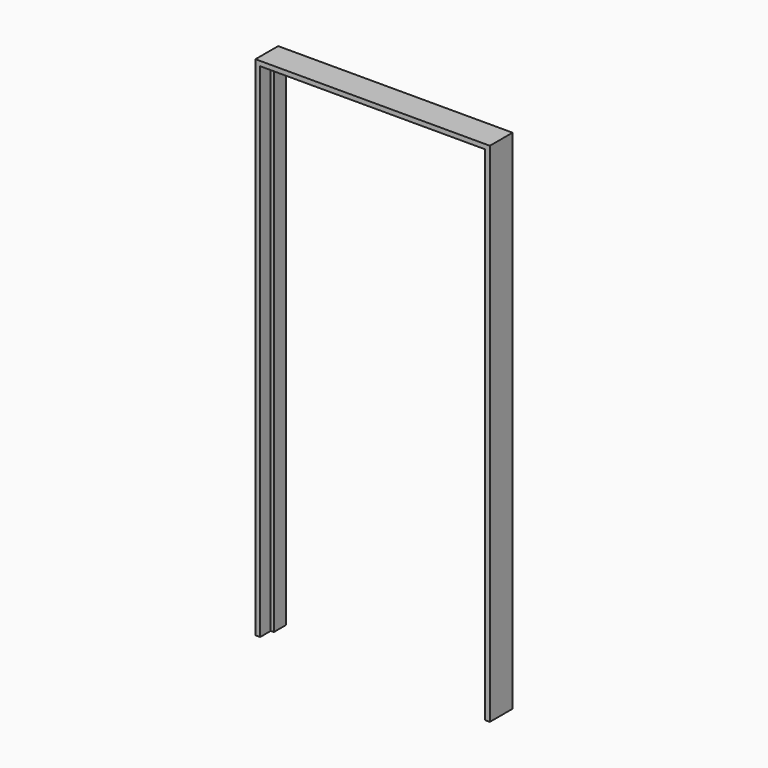
from build123d import *

# Parameters (mm, degrees)
F3_DEPTH      = 61.9125
F5_DEPTH      = 50.8
F5_DEPTH_BACK = 3.175


with BuildPart() as f3:
    # F2 (on offset) → F3 (new body)
    with BuildSketch(Plane.XZ.offset(-3.175)):
        Polygon((0, 2054.225), (0, 0), (19.05, 0), (31.75, 0), (31.75, 2041.525), (926.30625, 2041.525), (926.30625, 0), (939.00625, 0), (958.05625, 0), (958.05625, 2054.225), (958.05625, 2073.275), (0, 2073.275), align=None)
    extrude(amount=-F3_DEPTH)

    # F4 (on Front) → F5 (join, two sides)
    with BuildSketch(Plane.XZ) as f5_sk:
        Polygon((0, 2054.225), (0, 0), (19.05, 0), (19.05, 2041.525), (19.05, 2054.225), (364.33125, 2054.225), (593.725, 2054.225), (939.00625, 2054.225), (939.00625, 2041.525), (939.00625, 0), (958.05625, 0), (958.05625, 2054.225), (958.05625, 2073.275), (0, 2073.275), align=None)
    extrude(amount=F5_DEPTH)
    extrude(f5_sk.sketch, amount=-F5_DEPTH_BACK)


solid = f3.part
